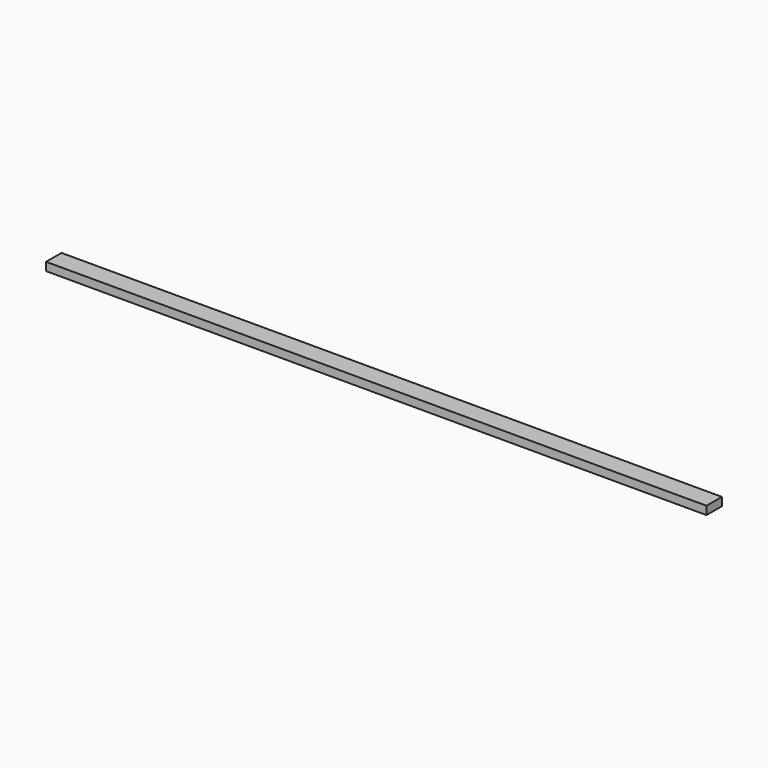
from build123d import *

# Parameters (mm, degrees)
F0_W     = 88.9
F0_H     = 38.1
F1_DEPTH = 3048


with BuildPart() as f1:
    # F0 (on Right) → F1 (new body)
    with BuildSketch(Plane.YZ):
        Rectangle(F0_W, F0_H)
        Rectangle(F0_W, F0_H)
    extrude(amount=F1_DEPTH)


solid = f1.part
